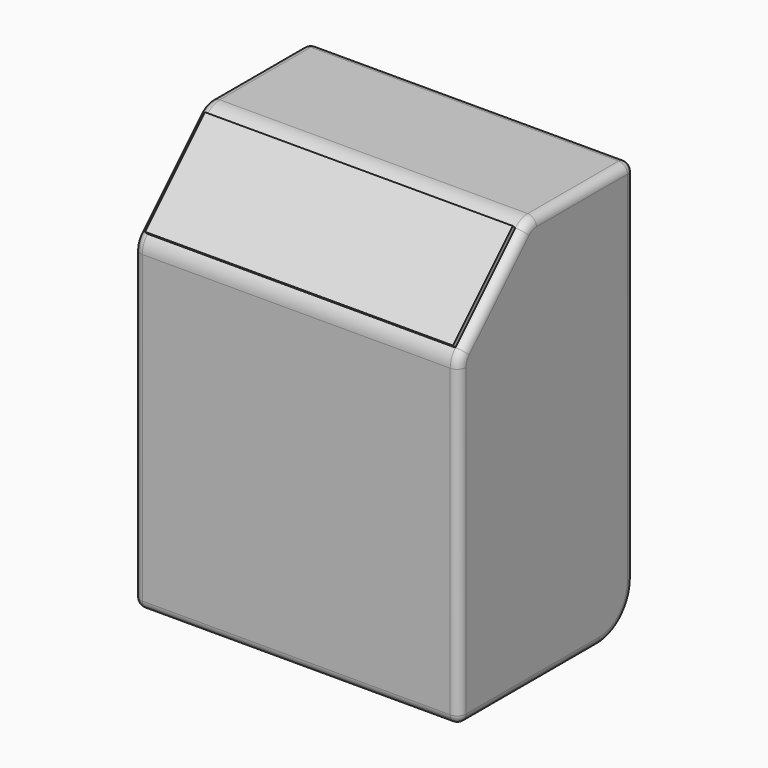
from build123d import *

# Parameters (mm, degrees)
F0_W     = 94.2402782384
F0_H     = 118.9312338829
F1_DEPTH = 63.5
F2_SIZE  = 25.4
F3_R     = 6.35
F4_R     = 2.54
F5_R     = 12.7
F6_R     = 2.54
F7_W     = 89.1602782384
F7_H     = 30.6605122421
F8_DEPTH = 1.27


with BuildPart() as f1:
    # F0 (on Front) → F1 (new body)
    with BuildSketch(Plane.XZ):
        with Locations((1.3193635968, 0)):
            Rectangle(F0_W, F0_H)
    extrude(amount=F1_DEPTH)

    # F2
    f2_edges = [f1.edges().sort_by_distance(p)[0] for p in [
        (1.319364, -63.5, 59.465617),
    ]]
    chamfer(f2_edges, length=F2_SIZE)

    # F3
    f3_edges = [f1.edges().sort_by_distance(p)[0] for p in [
        (1.319364, -63.5, 34.065617),
        (1.319364, -38.1, 59.465617),
    ]]
    fillet(f3_edges, radius=F3_R)

    # F4
    f4_edges = [f1.edges().sort_by_distance(p)[0] for p in [
        (-45.800776, -17.734872, 59.465617),
        (-45.800776, -50.8, 46.765617),
        (-45.800776, -63.5, -14.015128),
        (-45.800776, -63.016635, 33.865401),
        (-45.800776, -37.899784, 58.982252),
        (48.439503, -17.734872, 59.465617),
        (48.439503, -37.899784, 58.982252),
        (48.439503, -50.8, 46.765617),
        (48.439503, -63.016635, 33.865401),
        (48.439503, -63.5, -14.015128),
    ]]
    fillet(f4_edges, radius=F4_R)

    # F5
    f5_edges = [f1.edges().sort_by_distance(p)[0] for p in [
        (1.319364, 0, -59.465617),
    ]]
    fillet(f5_edges, radius=F5_R)

    # F6
    f6_edges = [f1.edges().sort_by_distance(p)[0] for p in [
        (48.439503, 0, 5.08),
        (48.439503, -3.719744, -55.745873),
        (-45.800776, 0, 5.08),
        (-45.800776, -3.719744, -55.745873),
    ]]
    fillet(f6_edges, radius=F6_R)

    # F7 (on face) → F8 (join)
    with BuildSketch(Plane(origin=(0, -48.7828084707, 48.7828084707), x_dir=(1, 0, 0), z_dir=(0, -0.7071067812, 0.7071067812))):
        with Locations((1.3193635968, -2.8527396186)):
            Rectangle(F7_W, F7_H)
    extrude(amount=F8_DEPTH)


solid = f1.part
